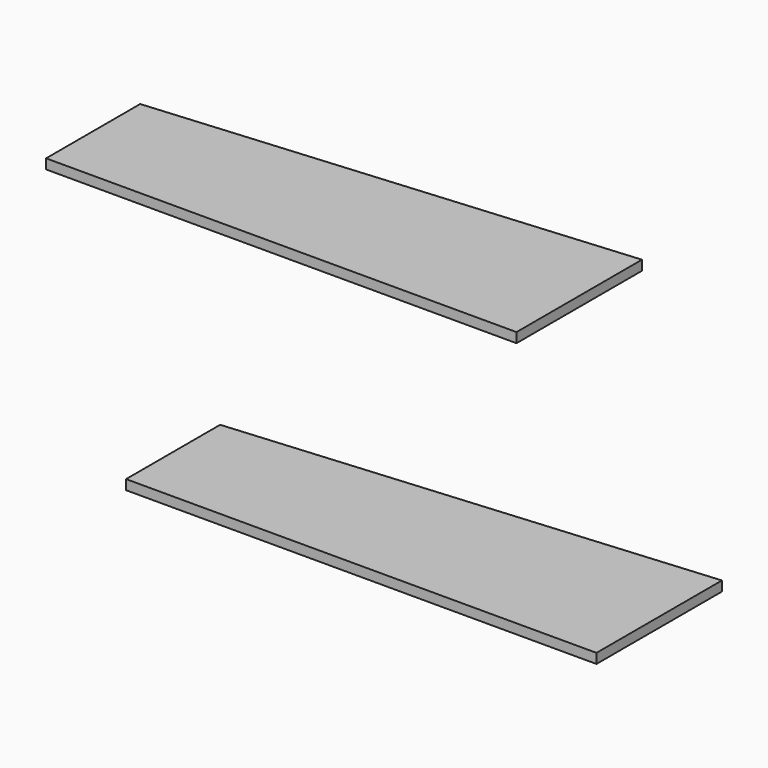
from build123d import *

# Parameters (mm, degrees)
F1_DEPTH = 3.175


with BuildPart() as f1:
    # F0 (on Top) → F1 (new body)
    with BuildSketch(Plane.XY):
        Polygon((-144.505005, 32.023567), (-144.505005, -6.076433), (7.894995, -6.076433), (7.894995, 44.723567), align=None)
    extrude(amount=F1_DEPTH)


with BuildPart() as f2_1:
    # F2: copy of F1
    add(f1.part.moved(Location((-25.908, 0, 83.058))))


solid = Compound([f1.part, f2_1.part])
